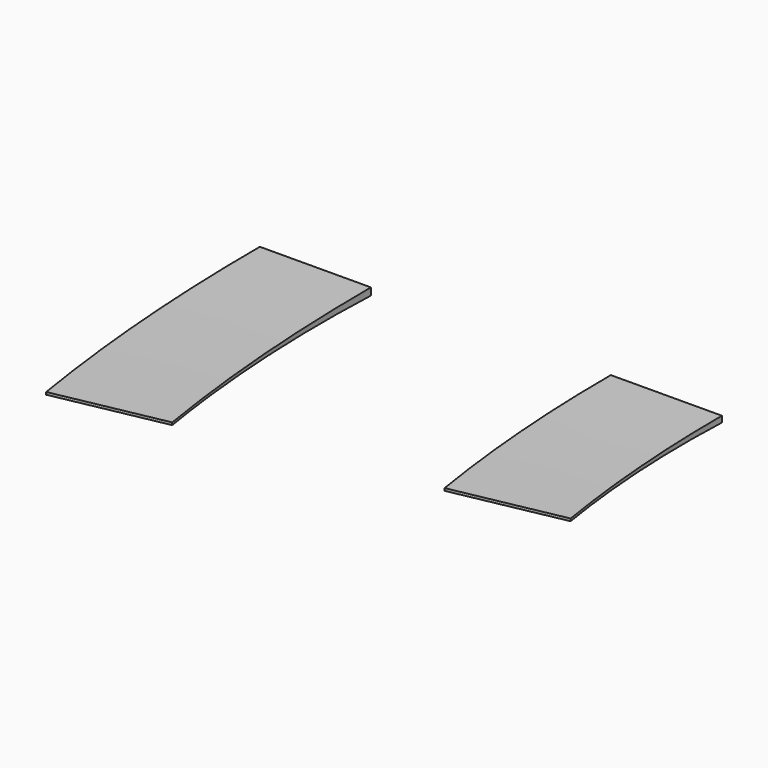
from build123d import *

# Parameters (mm, degrees)
F1_ANGLE_BACK = 11.25
F1_ANGLE      = 22.5
F2_W          = 186.3759476691
F2_H          = 20.6737495929
F3_DEPTH      = 118.1
F5_DEPTH      = 202.1
F7_DEPTH      = 395.5
F8_W          = 295.8482578397
F8_H          = 157.7552556992
F9_DEPTH      = 233


with BuildPart() as f1:
    # F0 (on Front) → F1 (revolve)
    with BuildSketch(Plane.XZ, mode=Mode.PRIVATE) as f1_sk:
        Polygon((37.433034228, -1.662807624), (-0.066965772, -1.7883691504), (0, -21.7882570398), (37.5, -21.6626955134), align=None)
    revolve(f1_sk.sketch.rotate(Axis((525.8388087714, 0, 45.6422517605), (-0.1769446249, 0, 0.9842208084)), -F1_ANGLE_BACK), axis=Axis((525.8388087714, 0, 45.6422517605), (-0.1769446249, 0, 0.9842208084)), revolution_arc=F1_ANGLE)


with BuildPart() as f1b:
    # F0 (on Front) → F1, piece 2 (revolve)
    with BuildSketch(Plane.XZ, mode=Mode.PRIVATE) as f1_sk:
        Polygon((155.9321597647, -1.2660361285), (118.4321597647, -1.391597655), (118.4991255367, -21.3914855443), (155.9991255367, -21.2659240179), align=None)
    revolve(f1_sk.sketch.rotate(Axis((525.8388087714, 0, 45.6422517605), (-0.1769446249, 0, 0.9842208084)), -F1_ANGLE_BACK), axis=Axis((525.8388087714, 0, 45.6422517605), (-0.1769446249, 0, 0.9842208084)), revolution_arc=F1_ANGLE)


with BuildPart() as f3_tool:
    # F2 (on Front) → F3 (new body, symmetric)
    with BuildSketch(Plane.XZ):
        with Locations((81.4311942086, -17.1368747965)):
            Rectangle(F2_W, F2_H)
    extrude(amount=F3_DEPTH, both=True)


with BuildPart() as f1_1:
    add(f1.part)

    # F3: cut by f3_tool
    add(f3_tool.part, mode=Mode.SUBTRACT)

    # F6 (on face) → F7 (cut)
    with BuildSketch(Plane(origin=(19.6894657776, -100.5725829361, 3.539800323), x_dir=(0.9813925868, 0.1918931334, -0.0067539617), z_dir=(0.1920119545, -0.9807852804, 0.0345201838))):
        Polygon((-9.9895421705, -4.4095212135), (-32.792224807, -4.5636250219), (-31.6481473996, -34.3096621304), (68.2897940278, -26.3134762645), (69.3400830806, -3.873400198), (27.5098117032, -4.1560951874), (27.5503870452, -10.1600132931), (-9.9489668285, -10.4134393192), align=None)
        Polygon((27.5098117032, -4.1560951874), (-9.9895421705, -4.4095212135), (-9.9489668285, -10.4134393192), (27.5503870452, -10.1600132931), align=None)
    extrude(amount=-F7_DEPTH, mode=Mode.SUBTRACT)


with BuildPart() as f1b_1:
    add(f1b.part)

    # F3: cut by f3_tool
    add(f3_tool.part, mode=Mode.SUBTRACT)

    # F4 (on face) → F5 (cut)
    with BuildSketch(Plane(origin=(19.6894657776, -100.5725829361, 3.539800323), x_dir=(0.9813925868, 0.1918931334, -0.0067539617), z_dir=(0.1920119545, -0.9807852804, 0.0345201838))):
        Polygon((108.5075416222, -3.6087008807), (103.6947359269, -3.6412265137), (102.3456370269, -20.5049160934), (182.2897195816, -19.1945433617), (181.2802152973, -3.1168926869), (146.006895496, -3.3552748546), (146.0474708379, -9.3591929603), (108.5481169642, -9.6126189864), align=None)
        Polygon((146.006895496, -3.3552748546), (108.5075416222, -3.6087008807), (108.5481169642, -9.6126189864), (146.0474708379, -9.3591929603), align=None)
    extrude(amount=-F5_DEPTH, mode=Mode.SUBTRACT)


with BuildPart() as f9_tool:
    # F8 (on Front) → F9 (new body)
    with BuildSketch(Plane.XZ):
        with Locations((60.3585354984, -10.74565202)):
            Rectangle(F8_W, F8_H)
    extrude(amount=-F9_DEPTH)


with BuildPart() as f1_2:
    add(f1_1.part)

    # F9: cut by f9_tool
    add(f9_tool.part, mode=Mode.SUBTRACT)


with BuildPart() as f1b_2:
    add(f1b_1.part)

    # F9: cut by f9_tool
    add(f9_tool.part, mode=Mode.SUBTRACT)


solid = Compound([f1_2.part, f1b_2.part])
